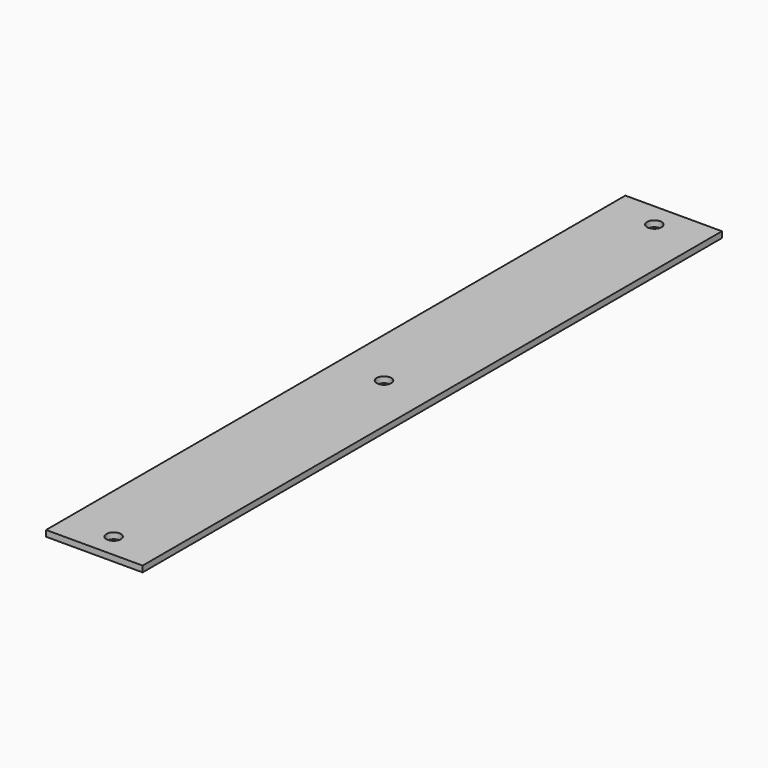
from build123d import *

# Parameters (mm, degrees)
F0_W     = 80
F0_H     = 600
F1_DEPTH = 5
F2_R     = 6
F3_DEPTH = 25


with BuildPart() as f1:
    # F0 (on Top) → F1 (new body)
    with BuildSketch(Plane.XY):
        Rectangle(F0_W, F0_H)
    extrude(amount=F1_DEPTH)

    # F2 (on Top) → F3 (cut)
    with BuildSketch(Plane.XY):
        with Locations((0, 280)):
            Circle(F2_R)
        Circle(F2_R)
        with Locations((0, -280)):
            Circle(F2_R)
    extrude(amount=F3_DEPTH, mode=Mode.SUBTRACT)


solid = f1.part
